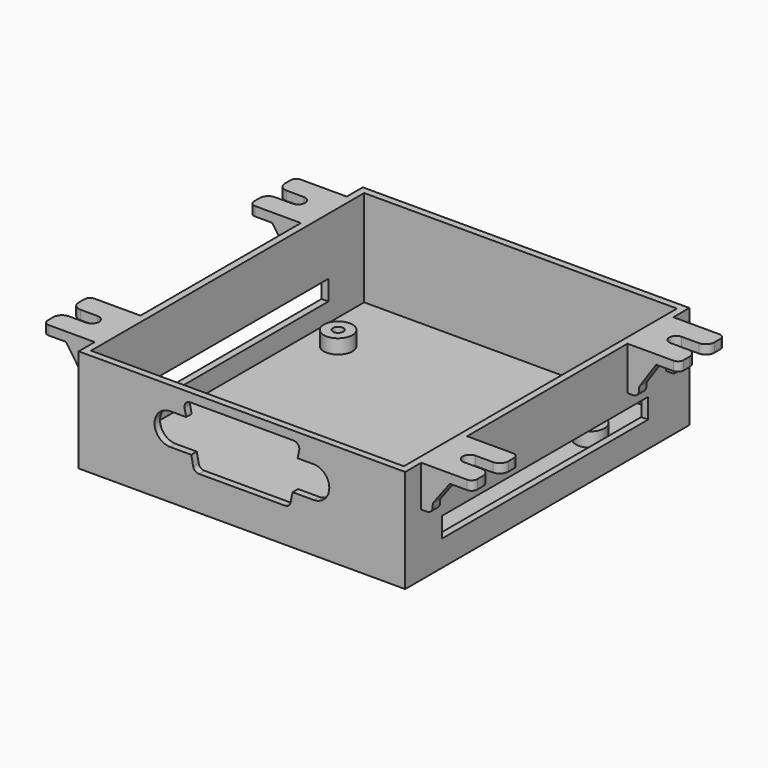
from build123d import *

# Parameters (mm, degrees)
PAD004_DEPTH            = 1.6
PAD005_DEPTH            = 1.6
LINEARPATTERN001_COUNT  = 2
LINEARPATTERN001_PITCH  = 8.4
FILLET004_R             = 1
FILLET005_R             = 1
FILLET006_R             = 1
FILLET007_R             = 1.5
PAD002_DEPTH            = 1.6
PAD003_DEPTH            = 1.6
LINEARPATTERN_COUNT     = 2
LINEARPATTERN_PITCH     = 8.4
FILLET_R                = 1
FILLET001_R             = 1
FILLET002_R             = 1
FILLET003_R             = 1.5
PAD008_DEPTH            = 1.6
PAD009_DEPTH            = 1.6
LINEARPATTERN003_COUNT  = 2
LINEARPATTERN003_PITCH  = 8.4
FILLET012_R             = 1
FILLET013_R             = 1
FILLET014_R             = 1
FILLET015_R             = 1.5
BODY004_PLACEMENT_ANGLE = 180
PAD006_DEPTH            = 1.6
PAD007_DEPTH            = 1.6
LINEARPATTERN002_COUNT  = 2
LINEARPATTERN002_PITCH  = 8.4
FILLET008_R             = 1
FILLET009_R             = 1
FILLET010_R             = 1
FILLET011_R             = 1.5
BODY003_PLACEMENT_ANGLE = 180
SKETCH_W                = 57
SKETCH_H                = 62
PAD_DEPTH               = 18
SKETCH001_W             = 54.6
SKETCH001_H             = 59.6
POCKET_DEPTH            = 16.8
SKETCH002_W             = 45
SKETCH002_H             = 3.5
POCKET001_DEPTH         = 57.001
SKETCH003_R             = 2.5
SKETCH003_R_2           = 0.9
PAD001_DEPTH            = 2.5
POCKET002_DEPTH         = 5


with BuildPart() as tab2:
    # Sketch006 → Pad004 (new body)
    with BuildSketch(Plane.XY):
        with BuildLine():
            Line((-4.5, 5), (4.5, 5))
            Line((4.5, 5), (4.5, 1.2))
            Line((0, 1.2), (4.5, 1.2))
            ThreePointArc((0, 1.2), (-1.2, 0), (0, -1.2))
            Line((4.5, -1.2), (0, -1.2))
            Line((4.5, -1.2), (4.5, -5))
            Line((4.5, -5), (-4.5, -5))
            Line((-4.5, -5), (-4.5, 5))
        make_face()
    extrude(amount=PAD004_DEPTH)

    # Sketch007 (on DatumPlane) → Pad005 (join)
    with BuildSketch(Plane.XZ.offset(5)):
        Polygon((-4.5, 0), (-4.5, -6), (-2.5, -6), (-2.5, -4.4), (0.5, 0), align=None)
    pad005 = extrude(amount=-PAD005_DEPTH)

    # LinearPattern001: Pad005 ×2
    with Locations(*[(0, i * LINEARPATTERN001_PITCH, 0) for i in range(1, LINEARPATTERN001_COUNT)]):
        add(pad005)

    # Fillet004
    fillet004_edges = [tab2.edges().sort_by_distance(p)[0] for p in [
        (-2.5, -4.2, -6),
        (-2.5, 4.2, -6),
    ]]
    fillet(fillet004_edges, radius=FILLET004_R)

    # Fillet005
    fillet005_edges = [tab2.edges().sort_by_distance(p)[0] for p in [
        (-2.5, -4.2, -4.4),
        (-2.5, 4.2, -4.4),
    ]]
    fillet(fillet005_edges, radius=FILLET005_R)

    # Fillet006
    fillet006_edges = [tab2.edges().sort_by_distance(p)[0] for p in [
        (4.5, -5, 0.8),
        (4.5, 5, 0.8),
    ]]
    fillet(fillet006_edges, radius=FILLET006_R)

    # Fillet007
    fillet007_edges = [tab2.edges().sort_by_distance(p)[0] for p in [
        (4.5, -1.2, 0.8),
        (4.5, 1.2, 0.8),
    ]]
    fillet(fillet007_edges, radius=FILLET007_R)


with BuildPart() as tab2_1:
    # Body002 placement: moved
    add(tab2.part.moved(Location((33, 22.5, 16.4))))


with BuildPart() as tab1:
    # Sketch004 → Pad002 (new body)
    with BuildSketch(Plane.XY):
        with BuildLine():
            Line((-4.5, 5), (4.5, 5))
            Line((4.5, 5), (4.5, 1.25))
            Line((0, 1.25), (4.5, 1.25))
            ThreePointArc((0, 1.25), (-1.25, 0), (0, -1.25))
            Line((4.5, -1.25), (0, -1.25))
            Line((4.5, -1.25), (4.5, -5))
            Line((4.5, -5), (-4.5, -5))
            Line((-4.5, -5), (-4.5, 5))
        make_face()
    extrude(amount=PAD002_DEPTH)

    # Sketch005 (on DatumPlane) → Pad003 (join)
    with BuildSketch(Plane.XZ.offset(5)):
        Polygon((-4.5, 0), (-4.5, -5.6), (-2.5, -5.6), (-2.5, -4), (0.5, 0), align=None)
    pad003 = extrude(amount=-PAD003_DEPTH)

    # LinearPattern: Pad003 ×2
    with Locations(*[(0, i * LINEARPATTERN_PITCH, 0) for i in range(1, LINEARPATTERN_COUNT)]):
        add(pad003)

    # Fillet
    fillet_edges = [tab1.edges().sort_by_distance(p)[0] for p in [
        (-2.5, -4.2, -5.6),
        (-2.5, 4.2, -5.6),
    ]]
    fillet(fillet_edges, radius=FILLET_R)

    # Fillet001
    fillet001_edges = [tab1.edges().sort_by_distance(p)[0] for p in [
        (-2.5, -4.2, -4),
        (-2.5, 4.2, -4),
    ]]
    fillet(fillet001_edges, radius=FILLET001_R)

    # Fillet002
    fillet002_edges = [tab1.edges().sort_by_distance(p)[0] for p in [
        (4.5, -5, 0.8),
        (4.5, 5, 0.8),
    ]]
    fillet(fillet002_edges, radius=FILLET002_R)

    # Fillet003
    fillet003_edges = [tab1.edges().sort_by_distance(p)[0] for p in [
        (4.5, -1.25, 0.8),
        (4.5, 1.25, 0.8),
    ]]
    fillet(fillet003_edges, radius=FILLET003_R)


with BuildPart() as tab1_1:
    # Body001 placement: moved
    add(tab1.part.moved(Location((33, -22.5, 16.4))))


with BuildPart() as tab4:
    # Sketch010 → Pad008 (new body)
    with BuildSketch(Plane.XY):
        with BuildLine():
            Line((-4.5, 5), (4.5, 5))
            Line((4.5, 5), (4.5, 1.25))
            Line((0, 1.25), (4.5, 1.25))
            ThreePointArc((0, 1.25), (-1.25, 0), (0, -1.25))
            Line((4.5, -1.25), (0, -1.25))
            Line((4.5, -1.25), (4.5, -5))
            Line((4.5, -5), (-4.5, -5))
            Line((-4.5, -5), (-4.5, 5))
        make_face()
    extrude(amount=PAD008_DEPTH)

    # Sketch011 (on DatumPlane) → Pad009 (join)
    with BuildSketch(Plane.XZ.offset(5)):
        Polygon((-4.5, 0), (-4.5, -6), (-2.5, -6), (-2.5, -4.4), (0.5, 0), align=None)
    pad009 = extrude(amount=-PAD009_DEPTH)

    # LinearPattern003: Pad009 ×2
    with Locations(*[(0, i * LINEARPATTERN003_PITCH, 0) for i in range(1, LINEARPATTERN003_COUNT)]):
        add(pad009)

    # Fillet012
    fillet012_edges = [tab4.edges().sort_by_distance(p)[0] for p in [
        (-2.5, -4.2, -6),
        (-2.5, 4.2, -6),
    ]]
    fillet(fillet012_edges, radius=FILLET012_R)

    # Fillet013
    fillet013_edges = [tab4.edges().sort_by_distance(p)[0] for p in [
        (-2.5, -4.2, -4.4),
        (-2.5, 4.2, -4.4),
    ]]
    fillet(fillet013_edges, radius=FILLET013_R)

    # Fillet014
    fillet014_edges = [tab4.edges().sort_by_distance(p)[0] for p in [
        (4.5, -5, 0.8),
        (4.5, 5, 0.8),
    ]]
    fillet(fillet014_edges, radius=FILLET014_R)

    # Fillet015
    fillet015_edges = [tab4.edges().sort_by_distance(p)[0] for p in [
        (4.5, -1.25, 0.8),
        (4.5, 1.25, 0.8),
    ]]
    fillet(fillet015_edges, radius=FILLET015_R)


with BuildPart() as tab4_1:
    # Body004 placement: moved
    add(tab4.part.moved(Location((-33, -22.5, 16.4))).rotate(Axis((-33, -22.5, 16.4), (0, 0, 1)), BODY004_PLACEMENT_ANGLE))


with BuildPart() as tab3:
    # Sketch008 → Pad006 (new body)
    with BuildSketch(Plane.XY):
        with BuildLine():
            Line((-4.5, 5), (4.5, 5))
            Line((4.5, 5), (4.5, 1.25))
            Line((0, 1.25), (4.5, 1.25))
            ThreePointArc((0, 1.25), (-1.25, 0), (0, -1.25))
            Line((4.5, -1.25), (0, -1.25))
            Line((4.5, -1.25), (4.5, -5))
            Line((4.5, -5), (-4.5, -5))
            Line((-4.5, -5), (-4.5, 5))
        make_face()
    extrude(amount=PAD006_DEPTH)

    # Sketch009 (on DatumPlane) → Pad007 (join)
    with BuildSketch(Plane.XZ.offset(5)):
        Polygon((-4.5, 0), (-4.5, -6), (-2.5, -6), (-2.5, -4.4), (0.5, 0), align=None)
    pad007 = extrude(amount=-PAD007_DEPTH)

    # LinearPattern002: Pad007 ×2
    with Locations(*[(0, i * LINEARPATTERN002_PITCH, 0) for i in range(1, LINEARPATTERN002_COUNT)]):
        add(pad007)

    # Fillet008
    fillet008_edges = [tab3.edges().sort_by_distance(p)[0] for p in [
        (-2.5, -4.2, -6),
        (-2.5, 4.2, -6),
    ]]
    fillet(fillet008_edges, radius=FILLET008_R)

    # Fillet009
    fillet009_edges = [tab3.edges().sort_by_distance(p)[0] for p in [
        (-2.5, -4.2, -4.4),
        (-2.5, 4.2, -4.4),
    ]]
    fillet(fillet009_edges, radius=FILLET009_R)

    # Fillet010
    fillet010_edges = [tab3.edges().sort_by_distance(p)[0] for p in [
        (4.5, -5, 0.8),
        (4.5, 5, 0.8),
    ]]
    fillet(fillet010_edges, radius=FILLET010_R)

    # Fillet011
    fillet011_edges = [tab3.edges().sort_by_distance(p)[0] for p in [
        (4.5, -1.25, 0.8),
        (4.5, 1.25, 0.8),
    ]]
    fillet(fillet011_edges, radius=FILLET011_R)


with BuildPart() as tab3_1:
    # Body003 placement: moved
    add(tab3.part.moved(Location((-33, 22.5, 16.4))).rotate(Axis((-33, 22.5, 16.4), (0, 0, 1)), BODY003_PLACEMENT_ANGLE))


with BuildPart() as body:
    # Sketch → Pad (new body)
    with BuildSketch(Plane.XY):
        Rectangle(SKETCH_W, SKETCH_H)
    extrude(amount=PAD_DEPTH)

    # Sketch001 (on DatumPlane) → Pocket (cut)
    with BuildSketch(Plane.XY.offset(18)):
        Rectangle(SKETCH001_W, SKETCH001_H)
    extrude(amount=-POCKET_DEPTH, mode=Mode.SUBTRACT)

    # Sketch002 (on Face3 of Pocket) → Pocket001 (cut, through all)
    with BuildSketch(Plane.YZ.offset(28.5)):
        with Locations((-0.5, 6.25)):
            Rectangle(SKETCH002_W, SKETCH002_H)
    extrude(amount=-POCKET001_DEPTH, mode=Mode.SUBTRACT)

    # Sketch003 (on Face19 of Pocket001) → Pad001 (join)
    with BuildSketch(Plane.XY.offset(1.2)):
        with Locations((22, -26.5)):
            Circle(SKETCH003_R)
        with Locations((22, -26.5)):
            Circle(SKETCH003_R_2, mode=Mode.SUBTRACT)
        with Locations((-22, -26.5)):
            Circle(SKETCH003_R)
        with Locations((-22, -26.5)):
            Circle(SKETCH003_R_2, mode=Mode.SUBTRACT)
        with Locations((22, 17.5)):
            Circle(SKETCH003_R)
        with Locations((22, 17.5)):
            Circle(SKETCH003_R_2, mode=Mode.SUBTRACT)
        with Locations((-22, 17.5)):
            Circle(SKETCH003_R)
        with Locations((-22, 17.5)):
            Circle(SKETCH003_R_2, mode=Mode.SUBTRACT)
    extrude(amount=PAD001_DEPTH)

    # Boolean: union Tab2, Tab1, Tab4, Tab3
    add(tab2_1.part)
    add(tab1_1.part)
    add(tab4_1.part)
    add(tab3_1.part)

    # Sketch012 (on DatumPlane) → Pocket002 (cut)
    with BuildSketch(Plane.XZ.offset(32)):
        with BuildLine():
            Line((-9.022841, 16.5), (9.022841, 16.5))
            ThreePointArc((10, 15.28749), (9.801465, 16.127491), (9.022841, 16.5))
            Line((9.72, 14), (10, 15.28749))
            Line((12.5, 14), (9.72, 14))
            ThreePointArc((12.5, 8.5), (15.25, 11.25), (12.5, 14))
            Line((12.5, 8.5), (8.84, 8.5))
            Line((8.5, 6.803495), (8.84, 8.5))
            ThreePointArc((7.519497, 6), (8.153333, 6.226532), (8.5, 6.803495))
            Line((-7.519497, 6), (7.519497, 6))
            ThreePointArc((-8.5, 6.803495), (-8.153333, 6.226532), (-7.519497, 6))
            Line((-8.84, 8.5), (-8.5, 6.803495))
            Line((-12.5, 8.5), (-8.84, 8.5))
            ThreePointArc((-12.5, 14), (-15.25, 11.25), (-12.5, 8.5))
            Line((-12.5, 14), (-9.72, 14))
            Line((-10, 15.28749), (-9.72, 14))
            ThreePointArc((-9.022841, 16.5), (-9.801465, 16.127491), (-10, 15.28749))
        make_face()
    extrude(amount=-POCKET002_DEPTH, mode=Mode.SUBTRACT)


solid = body.part
